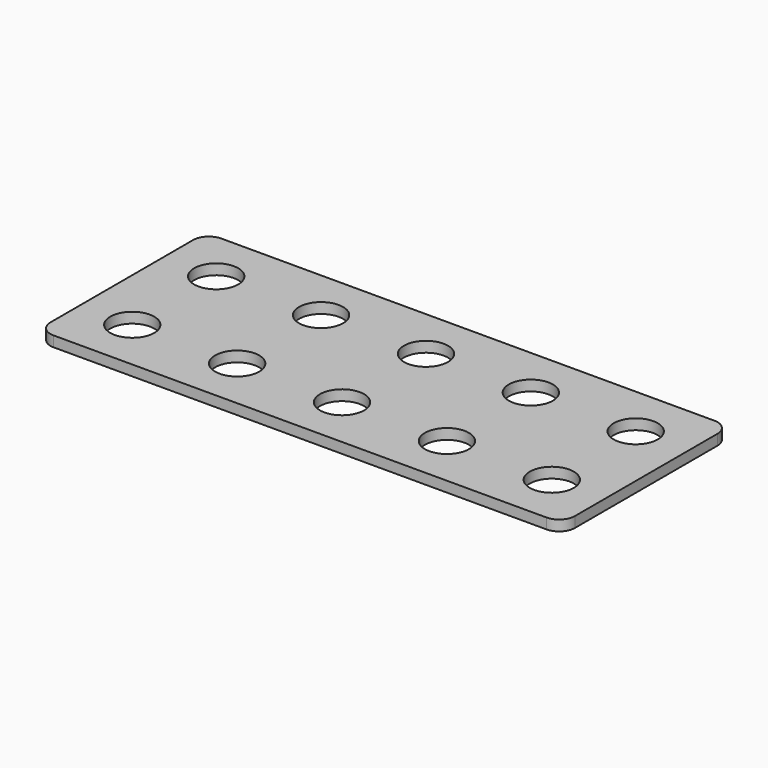
from build123d import *

# Parameters (mm, degrees)
SKETCH_R  = 2.1
PAD_DEPTH = 1


with BuildPart() as part:
    # Sketch → Pad (new body)
    with BuildSketch(Plane.XY):
        with BuildLine():
            Line((-3.5, 15), (43.5, 15))
            ThreePointArc((45, 13.5), (44.56066, 14.56066), (43.5, 15))
            Line((45, 13.5), (45, -3.5))
            ThreePointArc((43.5, -5), (44.56066, -4.56066), (45, -3.5))
            Line((43.5, -5), (-3.5, -5))
            ThreePointArc((-5, -3.5), (-4.56066, -4.56066), (-3.5, -5))
            Line((-5, -3.5), (-5, 13.5))
            ThreePointArc((-3.5, 15), (-4.56066, 14.56066), (-5, 13.5))
        make_face()
        Circle(SKETCH_R, mode=Mode.SUBTRACT)
        with Locations((0, 10)):
            Circle(SKETCH_R, mode=Mode.SUBTRACT)
        with Locations((10, 0)):
            Circle(SKETCH_R, mode=Mode.SUBTRACT)
        with Locations((20, 0)):
            Circle(SKETCH_R, mode=Mode.SUBTRACT)
        with Locations((30, 0)):
            Circle(SKETCH_R, mode=Mode.SUBTRACT)
        with Locations((40, 0)):
            Circle(SKETCH_R, mode=Mode.SUBTRACT)
        with Locations((10, 10)):
            Circle(SKETCH_R, mode=Mode.SUBTRACT)
        with Locations((20, 10)):
            Circle(SKETCH_R, mode=Mode.SUBTRACT)
        with Locations((30, 10)):
            Circle(SKETCH_R, mode=Mode.SUBTRACT)
        with Locations((40, 10)):
            Circle(SKETCH_R, mode=Mode.SUBTRACT)
    extrude(amount=PAD_DEPTH)


solid = part.part
